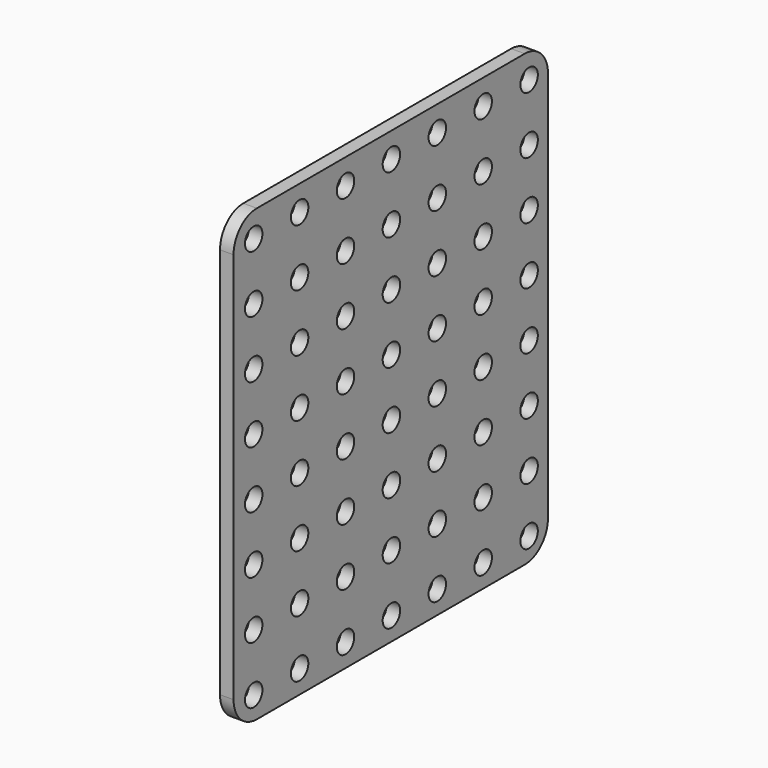
from build123d import *

# Parameters (mm, degrees)
F0_W     = 68.6308
F0_H     = 78.5622
F1_DEPTH = 2.3622
F2_R     = 5.08
F3_R     = 1.905
F4_DEPTH = 25.4


with BuildPart() as f1:
    # F0 (on Right) → F1 (new body)
    with BuildSketch(Plane.YZ):
        with Locations((-0.863416, -1.877572)):
            Rectangle(F0_W, F0_H)
    extrude(amount=F1_DEPTH)

    # F2
    f2_edges = [f1.edges().sort_by_distance(p)[0] for p in [
        (1.1811, -35.178816, -41.158672),
        (1.1811, 33.451984, -41.158672),
        (1.1811, 33.451984, 37.403528),
        (1.1811, -35.178816, 37.403528),
    ]]
    fillet(f2_edges, radius=F2_R)

    # F3 (on face) → F4 (cut)
    with BuildSketch(Plane.YZ.offset(2.3622)):
        with Locations((-30.784616, 33.009328)):
            Circle(F3_R)
        with Locations((-20.764316, 33.009328)):
            Circle(F3_R)
        with Locations((-10.744016, 33.009328)):
            Circle(F3_R)
        with Locations((-0.723716, 33.009328)):
            Circle(F3_R)
        with Locations((9.296584, 33.009328)):
            Circle(F3_R)
        with Locations((19.316884, 33.009328)):
            Circle(F3_R)
        with Locations((29.337184, 33.009328)):
            Circle(F3_R)
        with Locations((29.337184, 22.989028)):
            Circle(F3_R)
        with Locations((19.316884, 22.989028)):
            Circle(F3_R)
        with Locations((9.296584, 22.989028)):
            Circle(F3_R)
        with Locations((-0.723716, 22.989028)):
            Circle(F3_R)
        with Locations((-10.744016, 22.989028)):
            Circle(F3_R)
        with Locations((-20.764316, 22.989028)):
            Circle(F3_R)
        with Locations((-30.784616, 22.989028)):
            Circle(F3_R)
        with Locations((-30.784616, 12.968728)):
            Circle(F3_R)
        with Locations((-20.764316, 12.968728)):
            Circle(F3_R)
        with Locations((-10.744016, 12.968728)):
            Circle(F3_R)
        with Locations((-0.723716, 12.968728)):
            Circle(F3_R)
        with Locations((9.296584, 12.968728)):
            Circle(F3_R)
        with Locations((19.316884, 12.968728)):
            Circle(F3_R)
        with Locations((29.337184, 12.968728)):
            Circle(F3_R)
        with Locations((-30.784616, 2.948428)):
            Circle(F3_R)
        with Locations((-20.764316, 2.948428)):
            Circle(F3_R)
        with Locations((-10.744016, 2.948428)):
            Circle(F3_R)
        with Locations((-0.723716, 2.948428)):
            Circle(F3_R)
        with Locations((9.296584, 2.948428)):
            Circle(F3_R)
        with Locations((19.316884, 2.948428)):
            Circle(F3_R)
        with Locations((29.337184, 2.948428)):
            Circle(F3_R)
        with Locations((-30.784616, -7.071872)):
            Circle(F3_R)
        with Locations((-20.764316, -7.071872)):
            Circle(F3_R)
        with Locations((-10.744016, -7.071872)):
            Circle(F3_R)
        with Locations((-0.723716, -7.071872)):
            Circle(F3_R)
        with Locations((9.296584, -7.071872)):
            Circle(F3_R)
        with Locations((19.316884, -7.071872)):
            Circle(F3_R)
        with Locations((29.337184, -7.071872)):
            Circle(F3_R)
        with Locations((-30.784616, -17.092172)):
            Circle(F3_R)
        with Locations((-20.764316, -17.092172)):
            Circle(F3_R)
        with Locations((-10.744016, -17.092172)):
            Circle(F3_R)
        with Locations((-0.723716, -17.092172)):
            Circle(F3_R)
        with Locations((9.296584, -17.092172)):
            Circle(F3_R)
        with Locations((19.316884, -17.092172)):
            Circle(F3_R)
        with Locations((29.337184, -17.092172)):
            Circle(F3_R)
        with Locations((-30.784616, -27.112472)):
            Circle(F3_R)
        with Locations((-20.764316, -27.112472)):
            Circle(F3_R)
        with Locations((-10.744016, -27.112472)):
            Circle(F3_R)
        with Locations((-0.723716, -27.112472)):
            Circle(F3_R)
        with Locations((9.296584, -27.112472)):
            Circle(F3_R)
        with Locations((19.316884, -27.112472)):
            Circle(F3_R)
        with Locations((29.337184, -27.112472)):
            Circle(F3_R)
        with Locations((-30.784616, -37.132772)):
            Circle(F3_R)
        with Locations((-20.764316, -37.132772)):
            Circle(F3_R)
        with Locations((-10.744016, -37.132772)):
            Circle(F3_R)
        with Locations((-0.723716, -37.132772)):
            Circle(F3_R)
        with Locations((9.296584, -37.132772)):
            Circle(F3_R)
        with Locations((19.316884, -37.132772)):
            Circle(F3_R)
        with Locations((29.337184, -37.132772)):
            Circle(F3_R)
    extrude(amount=-F4_DEPTH, mode=Mode.SUBTRACT)


solid = f1.part
